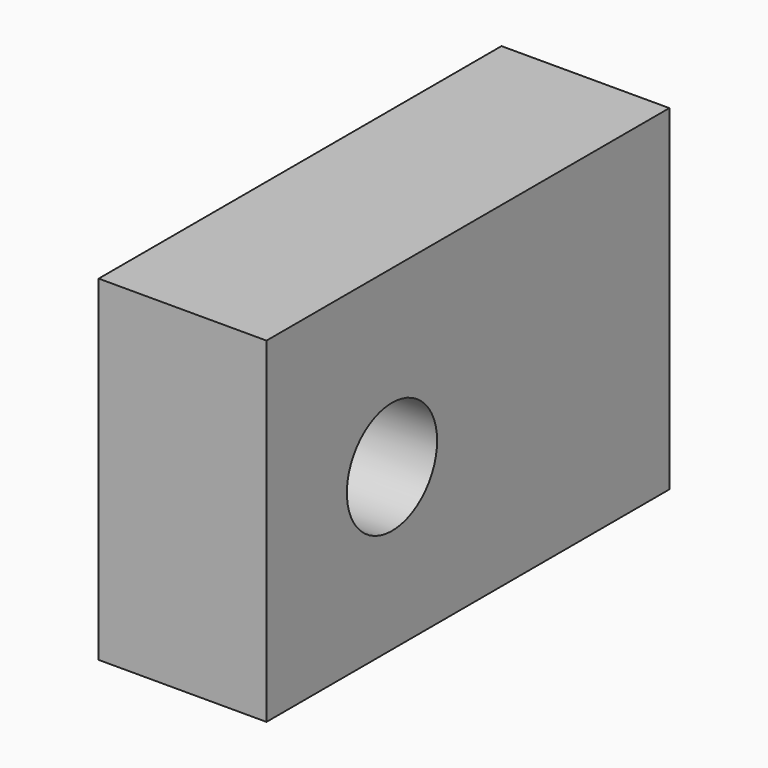
from build123d import *

# Parameters (mm, degrees)
F0_W     = 228.6
F0_H     = 152.4
F1_DEPTH = 76.2
F2_R     = 25.614601
F3_DEPTH = 76.2


with BuildPart() as f1:
    # F0 (on Right) → F1 (new body)
    with BuildSketch(Plane.YZ):
        with Locations((-114.3, 76.2)):
            Rectangle(F0_W, F0_H)
    extrude(amount=F1_DEPTH)

    # F2 (on face) → F3 (cut)
    with BuildSketch(Plane.YZ.offset(76.2)):
        with Locations((-157.394603, 73.01107)):
            Circle(F2_R)
    extrude(amount=-F3_DEPTH, mode=Mode.SUBTRACT)


solid = f1.part
